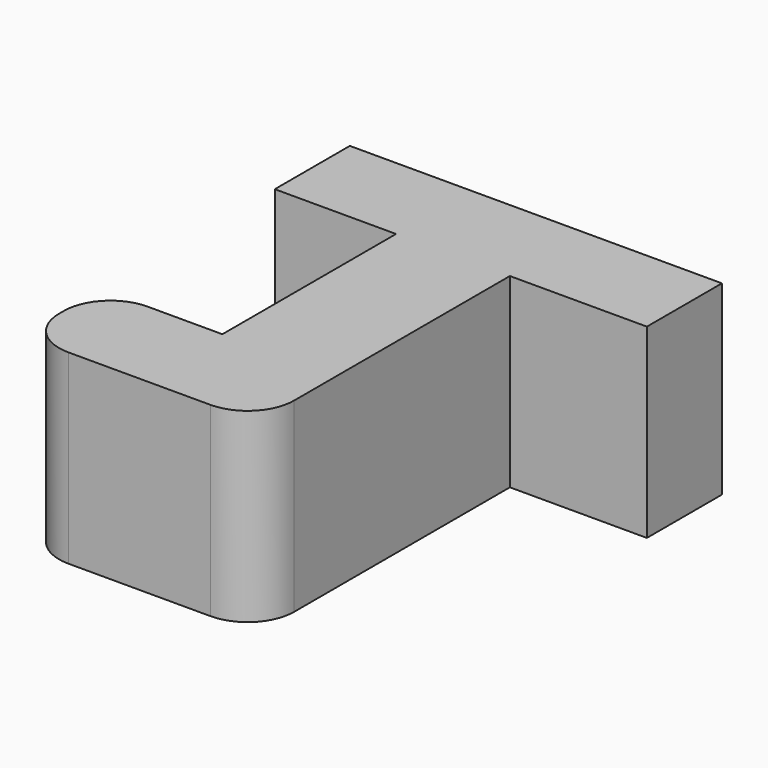
from build123d import *

# Parameters (mm, degrees)
F1_DEPTH = 25.4


with BuildPart() as f1:
    # F0 (on Top) → F1 (new body)
    with BuildSketch(Plane.XY):
        with BuildLine():
            Line((50.805587, 0), (0, 0))
            Line((0, 0), (0, -12.807356))
            Line((0, -12.807356), (16.556706, -12.807356))
            Line((16.556706, -12.807356), (16.556706, -42.451348))
            Line((16.556706, -42.451348), (6.35, -42.451348))
            ThreePointArc((6.35, -42.451348), (1.859872, -44.31122), (0, -48.801348))
            Line((0, -48.801348), (0, -49.62822))
            ThreePointArc((0, -49.62822), (1.859872, -54.118348), (6.35, -55.97822))
            Line((6.35, -55.97822), (25.748219, -55.97822))
            ThreePointArc((25.748219, -55.97822), (30.238347, -54.118348), (32.098219, -49.62822))
            Line((32.098219, -49.62822), (32.098219, -42.451348))
            Line((32.098219, -42.451348), (32.098219, -12.807356))
            Line((32.098219, -12.807356), (50.805587, -12.807356))
            Line((50.805587, -12.807356), (50.805587, 0))
        make_face()
    extrude(amount=F1_DEPTH)


solid = f1.part
